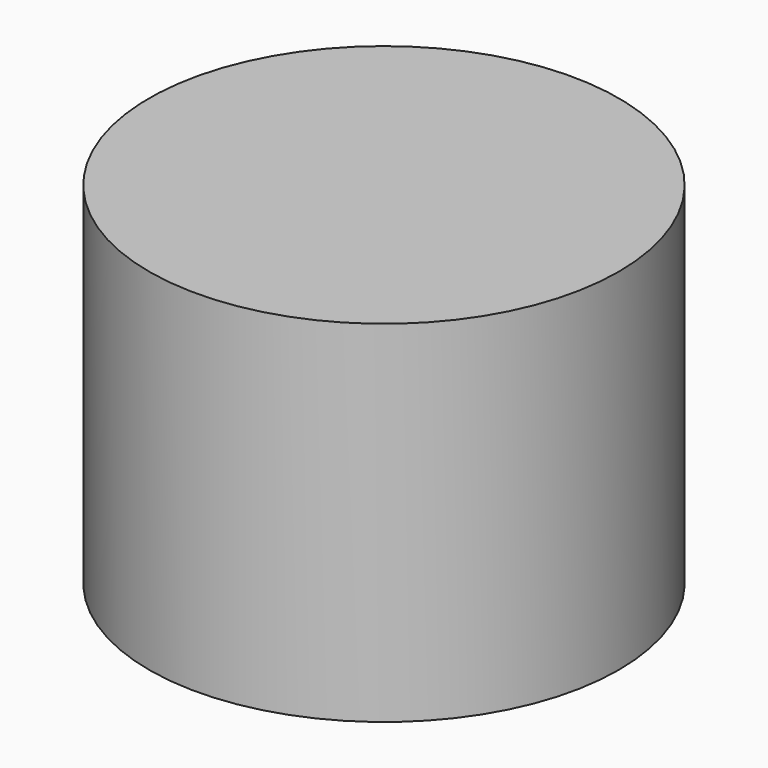
from build123d import *

# Parameters (mm, degrees)
F0_R     = 54.253548
F1_DEPTH = 81


with BuildPart() as f1:
    # F0 (on Top) → F1 (new body)
    with BuildSketch(Plane.XY):
        Circle(F0_R)
    extrude(amount=F1_DEPTH)

    # F2 (on Front) → F3 (revolve, cut)
    with BuildSketch(Plane.XZ):
        with BuildLine():
            Line((0, -42.426235), (0, 42.426235))
            ThreePointArc((0, 42.426235), (-42.426235, 0), (0, -42.426235))
        make_face()
    revolve(axis=Axis((0, 0, 0), (0, 0, 1)), mode=Mode.SUBTRACT)


solid = f1.part
